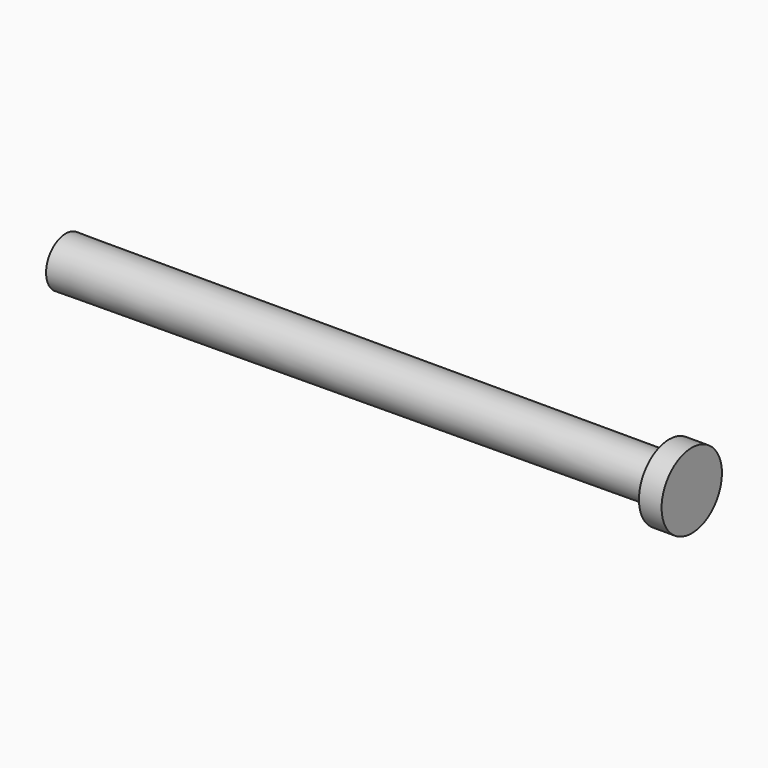
from build123d import *


with BuildPart() as f1:
    # F0 (on Front) → F1 (revolve)
    with BuildSketch(Plane.XZ):
        Polygon((1.5, 0), (1.5, 5), (-1.5, 5), (-1.5, 3), (-1.5, 0), align=None)
    revolve(axis=Axis((0, 0, 0), (-1, 0, 0)))

    # F0 (on Front) → F2 (revolve)
    with BuildSketch(Plane.XZ):
        Polygon((-1.5, 0), (-1.5, 3), (-81.5, 3), (-81.5, -0.2630478411), align=None)
    revolve(axis=Axis((-41.5, 0, -0.1315239206), (-0.9999945942, 0, -0.0032880802)))


solid = f1.part
